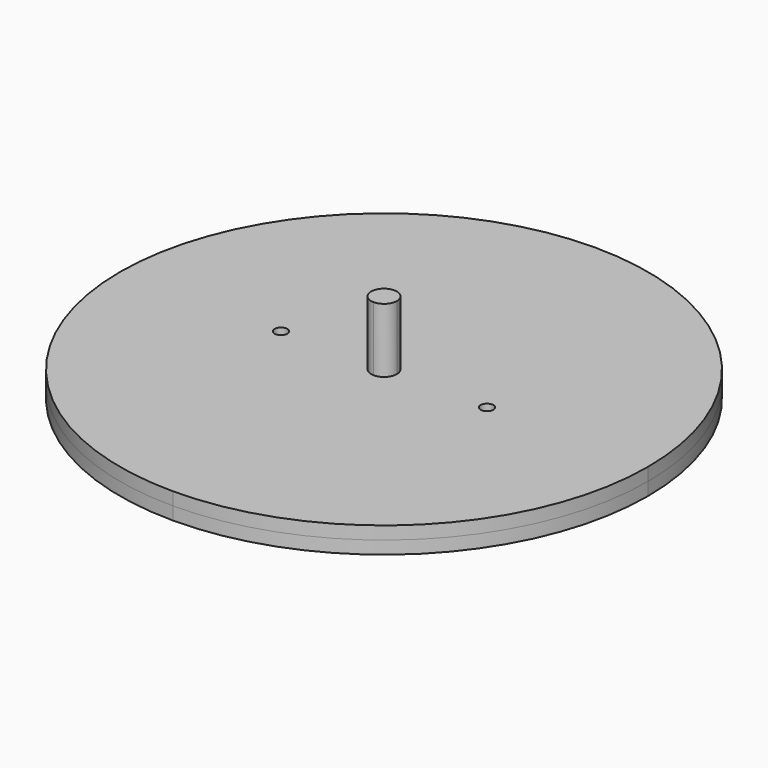
from build123d import *

# Parameters (mm, degrees)
F1_DEPTH = 19.05
F2_DEPTH = 3.175
F3_DEPTH = 3.175


with BuildPart() as f1:
    # F0 (on Top) → F1 (new body)
    with BuildSketch(Plane.XY):
        with BuildLine():
            ThreePointArc((3.175, 0), (2.2450640303, 2.2450640303), (0, 3.175))
            Line((0, 3.175), (0, 0))
            Line((0, 0), (3.175, 0))
        make_face()
        with BuildLine():
            Line((0, 0), (0, 3.175))
            ThreePointArc((0, 3.175), (-2.2450640303, 2.2450640303), (-3.175, 0))
            Line((-3.175, 0), (0, 0))
        make_face()
        with BuildLine():
            ThreePointArc((-3.175, 0), (-2.2450640303, -2.2450640303), (0, -3.175))
            Line((0, -3.175), (0, 0))
            Line((0, 0), (-3.175, 0))
        make_face()
        with BuildLine():
            Line((0, 0), (0, -3.175))
            ThreePointArc((0, -3.175), (2.2450640303, -2.2450640303), (3.175, 0))
            Line((3.175, 0), (0, 0))
        make_face()
    extrude(amount=F1_DEPTH)

    # F0 (on Top) → F2 (join)
    with BuildSketch(Plane.XY):
        with BuildLine():
            Line((26.9875, 0), (65.0875, 0))
            ThreePointArc((65.0875, 0), (46.0238126205, 46.0238126205), (0, 65.0875))
            Line((0, 65.0875), (0, 3.175))
            ThreePointArc((0, 3.175), (2.2450640303, 2.2450640303), (3.175, 0))
            Line((3.175, 0), (23.8125, 0))
            ThreePointArc((23.8125, 0), (25.4, 1.5875), (26.9875, 0))
        make_face()
        with BuildLine():
            ThreePointArc((0, -65.0875), (46.0238126205, -46.0238126205), (65.0875, 0))
            Line((65.0875, 0), (26.9875, 0))
            ThreePointArc((26.9875, 0), (25.4, -1.5875), (23.8125, 0))
            Line((23.8125, 0), (3.175, 0))
            ThreePointArc((3.175, 0), (2.2450640303, -2.2450640303), (0, -3.175))
            Line((0, -3.175), (0, -65.0875))
        make_face()
        with BuildLine():
            Line((0, 3.175), (0, 65.0875))
            ThreePointArc((0, 65.0875), (-46.0238126205, 46.0238126205), (-65.0875, 0))
            Line((-65.0875, 0), (-26.9875, 0))
            ThreePointArc((-26.9875, 0), (-25.4, 1.5875), (-23.8125, 0))
            Line((-23.8125, 0), (-3.175, 0))
            ThreePointArc((-3.175, 0), (-2.2450640303, 2.2450640303), (0, 3.175))
        make_face()
        with BuildLine():
            ThreePointArc((-65.0875, 0), (-46.0238126205, -46.0238126205), (0, -65.0875))
            Line((0, -65.0875), (0, -3.175))
            ThreePointArc((0, -3.175), (-2.2450640303, -2.2450640303), (-3.175, 0))
            Line((-3.175, 0), (-23.8125, 0))
            ThreePointArc((-23.8125, 0), (-25.4, -1.5875), (-26.9875, 0))
            Line((-26.9875, 0), (-65.0875, 0))
        make_face()
    extrude(amount=F2_DEPTH)

    # F3 (add): a face of the model
    f3_faces = [f1.faces().sort_by_distance(p)[0] for p in [
        (0, 0, 0),
    ]]
    extrude(f3_faces, amount=F3_DEPTH)


solid = f1.part
